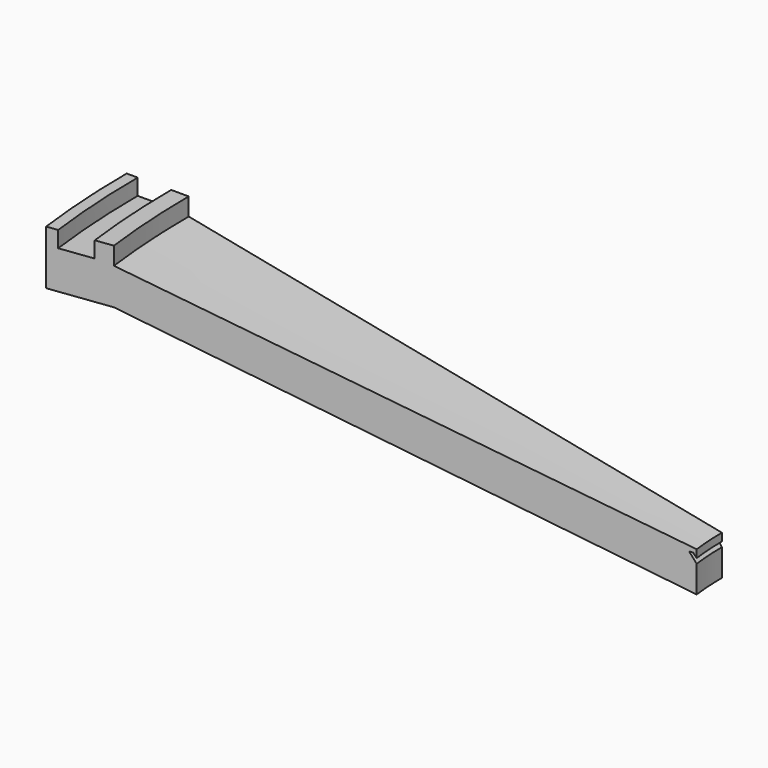
from build123d import *

# Parameters (mm, degrees)
F1_ANGLE = 7.253325


with BuildPart() as f1:
    # F0 (on Front) → F1 (revolve)
    with BuildSketch(Plane.XZ):
        Polygon((-107.962821, 68.805241), (-111.774302, 68.805241), (-111.774302, 70.636023), (-113.030564, 70.636023), (-113.030564, 67.215735), (-113.030564, 64.461134), (-105.96747, 64.461134), (-45.27666, 52.146702), (-45.27666, 54.901303), (-45.27666, 55.224331), (-46.066535, 56.253588), (-45.644877, 56.253588), (-45.27666, 55.795152), (-45.27666, 56.679994), (-105.96747, 68.622534), (-105.96747, 70.636023), (-107.962821, 70.636023), align=None)
    revolve(axis=Axis((-14.398896, 0, 35.603082), (0, 0, 1)), revolution_arc=F1_ANGLE)


solid = f1.part
